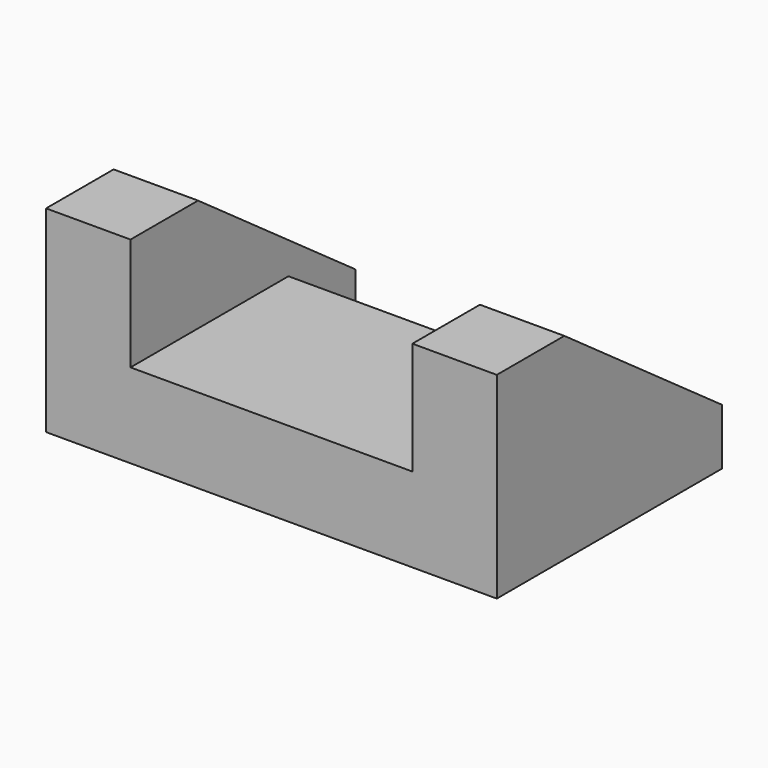
from build123d import *

# Parameters (mm, degrees)
F0_W     = 63.609058
F0_H     = 44.548504
F1_DEPTH = 19.05
F3_DEPTH = 19.05
F4_W     = 44.548504
F4_H     = 19.05
F5_DEPTH = 19.05


with BuildPart() as f1:
    # F0 (on Top) → F1 (new body)
    with BuildSketch(Plane.XY):
        with Locations((-22.052619, 7.86802)):
            Rectangle(F0_W, F0_H)
    extrude(amount=F1_DEPTH)

    # F2 (on face) → F3 (join)
    with BuildSketch(Plane(origin=(-53.857148, 0, 0), x_dir=(0, -1, 0), z_dir=(-1, 0, 0))):
        Polygon((-49.093768, 0), (14.406232, 0), (14.406232, 44.45), (-4.643768, 44.45), (-49.093768, 12.700002), align=None)
    extrude(amount=F3_DEPTH)

    # F4 (on face) → F5 (join)
    with BuildSketch(Plane.YZ.offset(9.75191)):
        Polygon((-14.406232, 44.45), (-14.406232, 19.05), (30.142272, 19.05), (30.142272, 0), (49.093768, 0), (49.093768, 12.7), (4.643768, 44.45), align=None)
        with Locations((7.86802, 9.525)):
            Rectangle(F4_W, F4_H)
    extrude(amount=F5_DEPTH)


solid = f1.part
